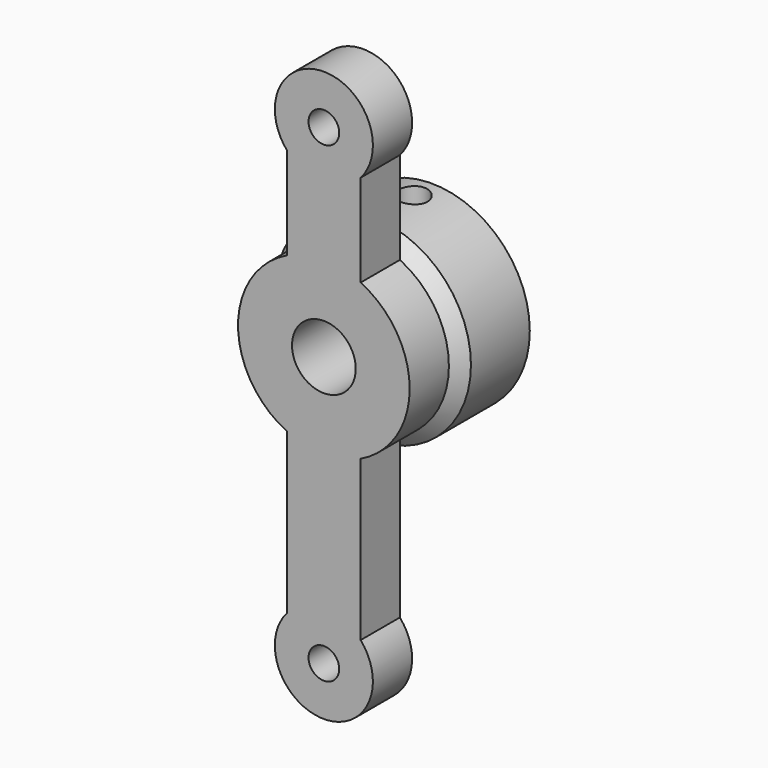
from build123d import *

# Parameters (mm, degrees)
CYLINDER975_R          = 1.25
CYLINDER975_DEPTH      = 4
CYLINDER975_ROLL_ANGLE = 90
CYLINDER979_R          = 1.25
CYLINDER979_DEPTH      = 7
CYLINDER977_R          = 2.6
CYLINDER977_DEPTH      = 11
CYLINDER977_ROLL_ANGLE = 90
CYLINDER981_R          = 1.25
CYLINDER981_DEPTH      = 4
CYLINDER981_ROLL_ANGLE = 90
CYLINDER976_R          = 5.6
CYLINDER976_DEPTH      = 4
CYLINDER976_ROLL_ANGLE = 90
CYLINDER978_R          = 8
CYLINDER978_DEPTH      = 6
CYLINDER978_ROLL_ANGLE = 90
BOX566_W               = 6
BOX566_H               = 4
BOX566_DEPTH           = 16.5
CYLINDER973_R          = 7
CYLINDER973_DEPTH      = 6
CYLINDER973_ROLL_ANGLE = 90
BOX565_W               = 6
BOX565_H               = 4
BOX565_DEPTH           = 22
CYLINDER980_R          = 4
CYLINDER980_DEPTH      = 4
CYLINDER980_ROLL_ANGLE = 90
CYLINDER974_R          = 4
CYLINDER974_DEPTH      = 4
CYLINDER974_ROLL_ANGLE = 90
CHAMFER106_SIZE        = 0.999


with BuildPart() as cylinder1154:
    # Cylinder975 → Cylinder975 (new body)
    with BuildSketch(Plane.XY):
        Circle(CYLINDER975_R)
    extrude(amount=CYLINDER975_DEPTH)


with BuildPart() as cylinder1154_1:
    # Cylinder975 roll: moved
    add(cylinder1154.part.rotate(Axis((0, 0, 0), (1, 0, 0)), CYLINDER975_ROLL_ANGLE))


with BuildPart() as cylinder1154_2:
    # Cylinder975 placement: moved
    add(cylinder1154_1.part.moved(Location((37, 32.75, -33))))


with BuildPart() as cylinder1158:
    # Cylinder979 → Cylinder979 (new body)
    with BuildSketch(Plane(origin=(37, 37.75, -8), x_dir=(1, 0, 0), z_dir=(0, 0, 1))):
        Circle(CYLINDER979_R)
    extrude(amount=CYLINDER979_DEPTH)


with BuildPart() as cylinder1156:
    # Cylinder977 → Cylinder977 (new body)
    with BuildSketch(Plane.XY):
        Circle(CYLINDER977_R)
    extrude(amount=CYLINDER977_DEPTH)


with BuildPart() as cylinder1156_1:
    # Cylinder977 roll: moved
    add(cylinder1156.part.rotate(Axis((0, 0, 0), (1, 0, 0)), CYLINDER977_ROLL_ANGLE))


with BuildPart() as cylinder1156_2:
    # Cylinder977 placement: moved
    add(cylinder1156_1.part.moved(Location((37, 39.75, -11))))


with BuildPart() as cylinder1160:
    # Cylinder981 → Cylinder981 (new body)
    with BuildSketch(Plane.XY):
        Circle(CYLINDER981_R)
    extrude(amount=CYLINDER981_DEPTH)


with BuildPart() as cylinder1160_1:
    # Cylinder981 roll: moved
    add(cylinder1160.part.rotate(Axis((0, 0, 0), (1, 0, 0)), CYLINDER981_ROLL_ANGLE))


with BuildPart() as cylinder1160_2:
    # Cylinder981 placement: moved
    add(cylinder1160_1.part.moved(Location((37, 32.75, 5.5))))


with BuildPart() as fusion612:
    # Cylinder976 → Cylinder976 (new body)
    with BuildSketch(Plane.XY):
        Circle(CYLINDER976_R)
    extrude(amount=CYLINDER976_DEPTH)


with BuildPart() as fusion612_1:
    # Cylinder976 roll: moved
    add(fusion612.part.rotate(Axis((0, 0, 0), (1, 0, 0)), CYLINDER976_ROLL_ANGLE))


with BuildPart() as fusion612_2:
    # Cylinder976 placement: moved
    add(fusion612_1.part.moved(Location((37, 39.75, -11))))

    # Fusion612: union Cylinder1154, Cylinder1158, Cylinder1156, Cylinder1160
    add(cylinder1154_2.part)
    add(cylinder1158.part)
    add(cylinder1156_2.part)
    add(cylinder1160_2.part)


with BuildPart() as cylinder1157:
    # Cylinder978 → Cylinder978 (new body)
    with BuildSketch(Plane.XY):
        Circle(CYLINDER978_R)
    extrude(amount=CYLINDER978_DEPTH)


with BuildPart() as cylinder1157_1:
    # Cylinder978 roll: moved
    add(cylinder1157.part.rotate(Axis((0, 0, 0), (1, 0, 0)), CYLINDER978_ROLL_ANGLE))


with BuildPart() as cylinder1157_2:
    # Cylinder978 placement: moved
    add(cylinder1157_1.part.moved(Location((37, 39.75, -11))))


with BuildPart() as cube757:
    # Box566 → Box566 (new body)
    with BuildSketch(Plane(origin=(34, 33.75, -11), x_dir=(1, 0, 0), z_dir=(0, 0, 1))):
        with Locations((3, 2)):
            Rectangle(BOX566_W, BOX566_H)
    extrude(amount=BOX566_DEPTH)


with BuildPart() as cylinder1152:
    # Cylinder973 → Cylinder973 (new body)
    with BuildSketch(Plane.XY):
        Circle(CYLINDER973_R)
    extrude(amount=CYLINDER973_DEPTH)


with BuildPart() as cylinder1152_1:
    # Cylinder973 roll: moved
    add(cylinder1152.part.rotate(Axis((0, 0, 0), (1, 0, 0)), CYLINDER973_ROLL_ANGLE))


with BuildPart() as cylinder1152_2:
    # Cylinder973 placement: moved
    add(cylinder1152_1.part.moved(Location((37, 39.75, -11))))


with BuildPart() as cube756:
    # Box565 → Box565 (new body)
    with BuildSketch(Plane(origin=(34, 33.75, -33), x_dir=(1, 0, 0), z_dir=(0, 0, 1))):
        with Locations((3, 2)):
            Rectangle(BOX565_W, BOX565_H)
    extrude(amount=BOX565_DEPTH)


with BuildPart() as cylinder1159:
    # Cylinder980 → Cylinder980 (new body)
    with BuildSketch(Plane.XY):
        Circle(CYLINDER980_R)
    extrude(amount=CYLINDER980_DEPTH)


with BuildPart() as cylinder1159_1:
    # Cylinder980 roll: moved
    add(cylinder1159.part.rotate(Axis((0, 0, 0), (1, 0, 0)), CYLINDER980_ROLL_ANGLE))


with BuildPart() as cylinder1159_2:
    # Cylinder980 placement: moved
    add(cylinder1159_1.part.moved(Location((37, 37.75, 5.5))))


with BuildPart() as front_axle_steering_arm_with_rear_link:
    # Cylinder974 → Cylinder974 (new body)
    with BuildSketch(Plane.XY):
        Circle(CYLINDER974_R)
    extrude(amount=CYLINDER974_DEPTH)


with BuildPart() as front_axle_steering_arm_with_rear_link_1:
    # Cylinder974 roll: moved
    add(front_axle_steering_arm_with_rear_link.part.rotate(Axis((0, 0, 0), (1, 0, 0)), CYLINDER974_ROLL_ANGLE))


with BuildPart() as front_axle_steering_arm_with_rear_link_2:
    # Cylinder974 placement: moved
    add(front_axle_steering_arm_with_rear_link_1.part.moved(Location((37, 37.75, -33))))

    # Fusion611: union Cube757, Cylinder1152, Cube756, Cylinder1159
    add(cube757.part)
    add(cylinder1152_2.part)
    add(cube756.part)
    add(cylinder1159_2.part)


with BuildPart() as front_axle_steering_arm_with_rear_link_3:
    # Fusion611 placement: moved
    add(front_axle_steering_arm_with_rear_link_2.part.moved(Location((0, -5, 0))))

    # Fusion613: union Cylinder1157
    add(cylinder1157_2.part)

    # Cut702: cut Fusion612
    add(fusion612_2.part, mode=Mode.SUBTRACT)

    # Chamfer106
    chamfer106_edges = [front_axle_steering_arm_with_rear_link_3.edges().sort_by_distance(p)[0] for p in [
        (30, 33.75, -11),
    ]]
    chamfer(chamfer106_edges, length=CHAMFER106_SIZE)


solid = front_axle_steering_arm_with_rear_link_3.part
